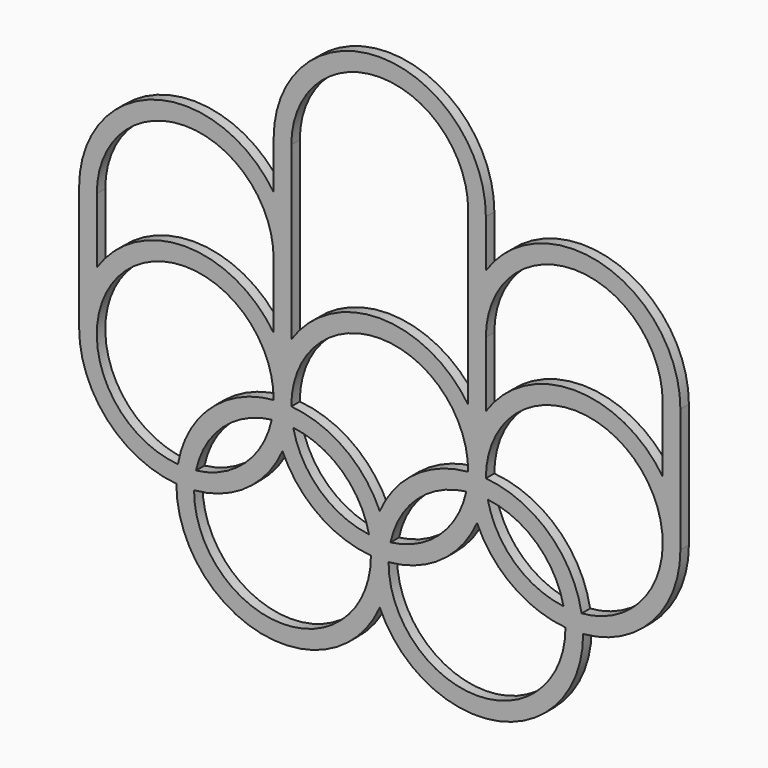
from build123d import *

# Parameters (mm, degrees)
F1_DEPTH = 30


with BuildPart() as f1:
    # F0 (on Front) → F1 (new body)
    with BuildSketch(Plane.XZ):
        with BuildLine():
            Line((-850, 350), (-850, 0))
            ThreePointArc((-850, 0), (-770.7934053928, -203.101630065), (-574.9981857664, -298.9566702858))
            ThreePointArc((-574.9981857664, -298.9566702858), (-336.7478329683, -593.5765745487), (0, -419.8957880828))
            ThreePointArc((0, -419.8957880828), (336.7478329683, -593.5765745487), (574.9981857664, -298.9566702858))
            ThreePointArc((574.9981857664, -298.9566702858), (770.7934053928, -203.101630065), (850, 0))
            Line((850, 0), (850, 350))
            ThreePointArc((850, 350), (636.6025403784, 637.2281323269), (300, 515.8312395178))
            Line((300, 515.8312395178), (300, 650))
            ThreePointArc((300, 650), (0, 950), (-300, 650))
            Line((-300, 650), (-300, 515.8312395178))
            ThreePointArc((-300, 515.8312395178), (-636.6025403784, 637.2281323269), (-850, 350))
        make_face()
        with BuildLine():
            ThreePointArc((-524.9978215231, -298.9563363961), (-375.3117154378, -243.8934259809), (-275, -119.8957880828))
            ThreePointArc((-275, -119.8957880828), (-174.6882845622, -243.8934259809), (-25.0021784769, -298.9563363961))
            ThreePointArc((-25.0021784769, -298.9563363961), (-25.0001821222, -298.9565033477), (-24.9981857664, -298.9566702858))
            ThreePointArc((-24.9981857664, -298.9566702858), (-24.9995464412, -299.4783343542), (-25, -300))
            ThreePointArc((-25, -300), (-275.5218329387, -549.9994553802), (-524.9978215231, -298.9563363961))
        make_face(mode=Mode.SUBTRACT)
        with BuildLine():
            ThreePointArc((-570.6581988816, -249.1450156414), (-718.9311571293, 184.2885350502), (-300.0021784769, -1.0436636039))
            ThreePointArc((-300.0021784769, -1.0436636039), (-477.7173885552, -78.8537579398), (-570.6581988816, -249.1450156414))
        make_face(mode=Mode.SUBTRACT)
        with BuildLine():
            ThreePointArc((-519.5619640719, -248.1401337326), (-443.9311571293, -115.7114649498), (-305.4380359281, -51.8598662674))
            ThreePointArc((-305.4380359281, -51.8598662674), (-381.0688428707, -184.2885350502), (-519.5619640719, -248.1401337326))
        make_face(mode=Mode.SUBTRACT)
        with BuildLine():
            ThreePointArc((-30.4380359281, -248.1401337326), (-168.9311571293, -184.2885350502), (-244.5619640719, -51.8598662674))
            ThreePointArc((-244.5619640719, -51.8598662674), (-106.0688428707, -115.7114649498), (-30.4380359281, -248.1401337326))
        make_face(mode=Mode.SUBTRACT)
        with BuildLine():
            ThreePointArc((249.9978215231, -1.0436636039), (100.3117154378, -56.1065740191), (0, -180.1042119172))
            ThreePointArc((0, -180.1042119172), (-100.3117154378, -56.1065740191), (-249.9978215231, -1.0436636039))
            ThreePointArc((-249.9978215231, -1.0436636038), (0, 250), (249.9978215231, -1.0436636039))
        make_face(mode=Mode.SUBTRACT)
        with BuildLine():
            ThreePointArc((25.0021784769, -298.9563363961), (174.6882845622, -243.8934259809), (275, -119.8957880828))
            ThreePointArc((275, -119.8957880828), (375.3117154378, -243.8934259809), (524.9978215231, -298.9563363961))
            ThreePointArc((524.9978215231, -298.9563363961), (275.5218329387, -549.9994553802), (25, -300))
            ThreePointArc((25, -300), (24.9995464412, -299.4783343542), (24.9981857664, -298.9566702858))
            ThreePointArc((24.9981857664, -298.9566702858), (25.0001821222, -298.9565033477), (25.0021784769, -298.9563363961))
        make_face(mode=Mode.SUBTRACT)
        with BuildLine():
            ThreePointArc((244.5619640719, -51.8598662674), (168.9311571293, -184.2885350502), (30.4380359281, -248.1401337326))
            ThreePointArc((30.4380359281, -248.1401337326), (106.0688428707, -115.7114649498), (244.5619640719, -51.8598662674))
        make_face(mode=Mode.SUBTRACT)
        with BuildLine():
            ThreePointArc((519.5619640719, -248.1401337326), (381.0688428707, -184.2885350502), (305.4380359281, -51.8598662674))
            ThreePointArc((305.4380359281, -51.8598662674), (443.9311571293, -115.7114649498), (519.5619640719, -248.1401337326))
        make_face(mode=Mode.SUBTRACT)
        with BuildLine():
            ThreePointArc((300.0021784769, -1.0436636038), (718.9311571293, 184.2885350502), (570.6581988816, -249.1450156414))
            ThreePointArc((570.6581988816, -249.1450156414), (477.7173885552, -78.8537579398), (300.0021784769, -1.0436636039))
        make_face(mode=Mode.SUBTRACT)
        with BuildLine():
            ThreePointArc((-800, 350), (-550, 600), (-300, 350))
            Line((-300, 350), (-300, 165.8312395178))
            ThreePointArc((-300, 165.8312395178), (-550, 300), (-800, 165.8312395178))
            Line((-800, 165.8312395178), (-800, 350))
        make_face(mode=Mode.SUBTRACT)
        with BuildLine():
            Line((-250, 165.8312395178), (-250, 350))
            Line((-250, 350), (-250, 650))
            ThreePointArc((-250, 650), (0, 900), (250, 650))
            Line((250, 650), (250, 350))
            Line((250, 350), (250, 165.8312395178))
            ThreePointArc((250, 165.8312395178), (0, 300), (-250, 165.8312395178))
        make_face(mode=Mode.SUBTRACT)
        with BuildLine():
            ThreePointArc((300, 350), (550, 600), (800, 350))
            Line((800, 350), (800, 165.8312395178))
            ThreePointArc((800, 165.8312395178), (550, 300), (300, 165.8312395178))
            Line((300, 165.8312395178), (300, 350))
        make_face(mode=Mode.SUBTRACT)
    extrude(amount=F1_DEPTH)


solid = f1.part
